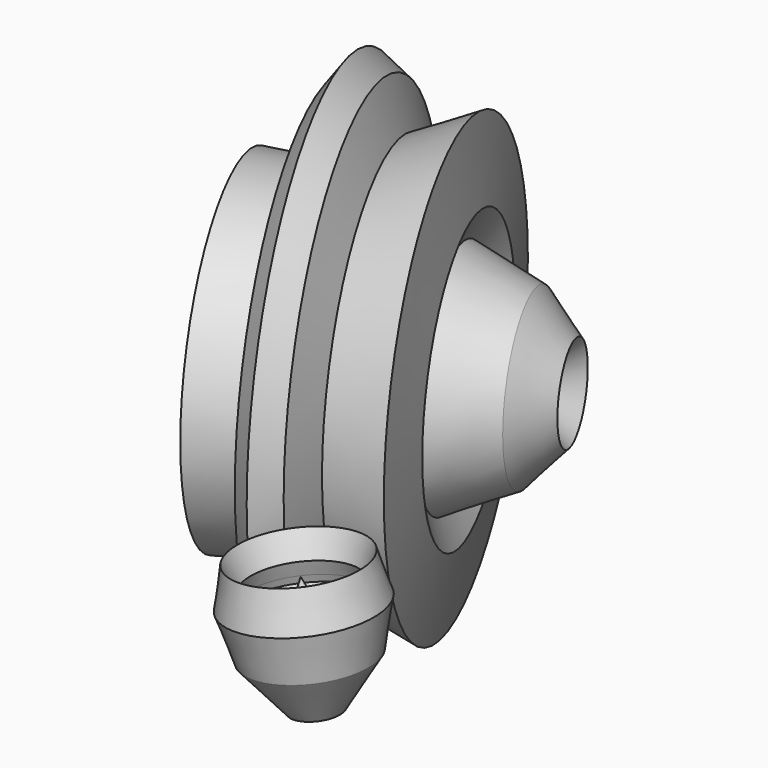
from build123d import *


with BuildPart() as f1:
    # F0 (on Front) → F1 (revolve)
    with BuildSketch(Plane.XZ):
        Polygon((0, -24.829883658), (-10.1909562945, 48.072502017), (-21.3083680719, 5.4557607509), (-58.2680185974, 15.097409592), (-56.5255258826, 21.7769643903), (-53.013574332, 34.6904322505), (-64.1309842467, 54.6605959535), (-67.4250349402, 21.1024861783), (-52.1900653839, -15.5437923968), (-16.7790539563, -50.543051213), (-21.9260025769, -28.3082276583), (-12.2497361153, -15.5437923968), align=None)
    revolve(axis=Axis((-5.0954781473, 0, 11.6213091795), (0.1384429531, 0, -0.9903704099)))


with BuildPart() as f3:
    # F2 (on Top) → F3 (revolve)
    with BuildSketch(Plane.XY):
        Polygon((-251.8155872822, 173.4278798103), (-132.0205181837, 234.2228889465), (-180.9043971059, 143.0534865566), (-160.9815955162, 130.8013051748), (-147.2538113594, 153.1235277653), (-147.2538113594, 194.0411180258), (-94.4137871265, 194.0411180258), (-111.7083698229, 256.6575134392), (-130.2112191916, 273.5572457314), (-90.9295980051, 316.5651411941), (-76.7683461308, 357.2642207146), (-130.2112191916, 375.8596777916), (-173.4120249748, 357.2642207146), (-130.2112191916, 327.8089761734), (-196.5206414461, 273.5572457314), align=None)
    revolve(axis=Axis((-151.8116220832, 366.5619492531, 0), (0.9185216689, 0.3953706409, 0)))


solid = Compound([f1.part, f3.part])
